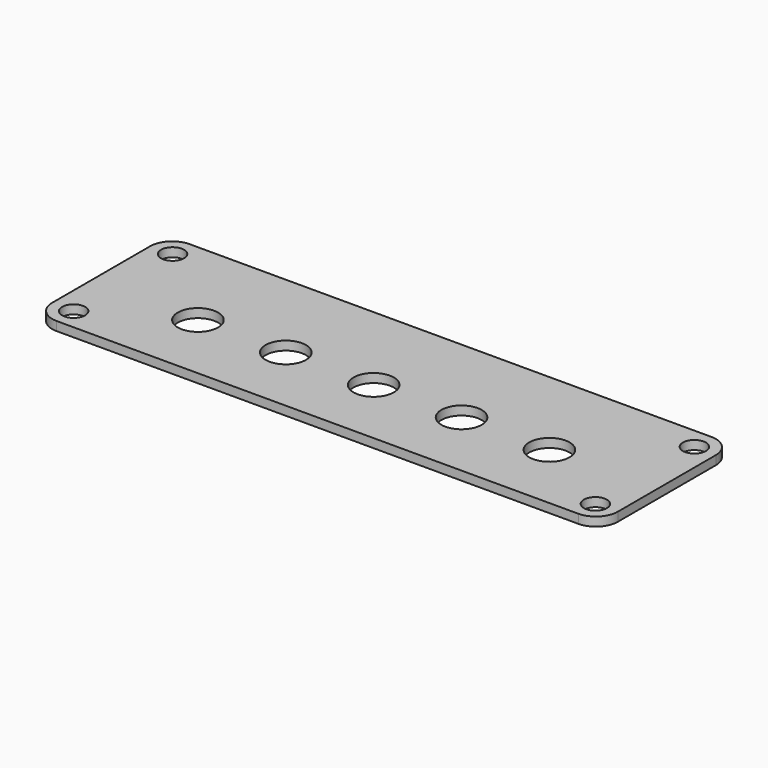
from build123d import *

# Parameters (mm, degrees)
SKETCH_W        = 103
SKETCH_H        = 30.3
PAD_DEPTH       = 1.62
SKETCH001_R     = 2.1
POCKET_DEPTH    = 5
SKETCH002_R     = 3.675
POCKET001_DEPTH = 5
FILLET_R        = 4


with BuildPart() as part:
    # Sketch → Pad (new body)
    with BuildSketch(Plane.XY):
        Rectangle(SKETCH_W, SKETCH_H)
    extrude(amount=PAD_DEPTH)

    # Sketch001 → Pocket (cut)
    with BuildSketch(Plane.XY.offset(1.62)):
        with Locations((-47.51, 11.26)):
            Circle(SKETCH001_R)
        with Locations((47.51, 11.26)):
            Circle(SKETCH001_R)
        with Locations((-47.51, -11.26)):
            Circle(SKETCH001_R)
        with Locations((47.51, -11.26)):
            Circle(SKETCH001_R)
    extrude(amount=-POCKET_DEPTH, mode=Mode.SUBTRACT)

    # Sketch002 → Pocket001 (cut)
    with BuildSketch(Plane.XY.offset(1.62)):
        with Locations((-32.004, -2.35)):
            Circle(SKETCH002_R)
        with Locations((-16.002, -2.35)):
            Circle(SKETCH002_R)
        with Locations((0, -2.35)):
            Circle(SKETCH002_R)
        with Locations((16.002, -2.35)):
            Circle(SKETCH002_R)
        with Locations((32.004, -2.35)):
            Circle(SKETCH002_R)
    extrude(amount=-POCKET001_DEPTH, mode=Mode.SUBTRACT)

    # Fillet
    fillet_edges = [part.edges().sort_by_distance(p)[0] for p in [
        (-51.5, -15.15, 0.81),
        (-51.5, 15.15, 0.81),
        (51.5, -15.15, 0.81),
        (51.5, 15.15, 0.81),
    ]]
    fillet(fillet_edges, radius=FILLET_R)


solid = part.part
